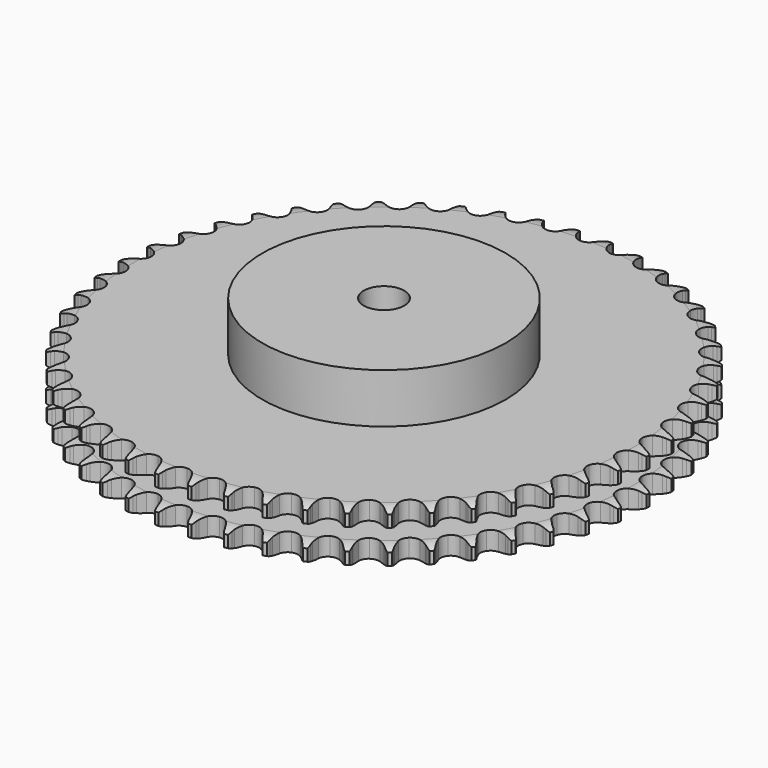
from build123d import *

# Parameters (mm, degrees)
PAD_DEPTH         = 25.5
SKETCH001_R       = 60
PAD001_DEPTH      = 50
SKETCH002_R       = 10
POCKET_DEPTH      = 0.001
POCKET_DEPTH_BACK = 50.001


with BuildPart() as part:
    # Sprocket → Pad (new body)
    with BuildSketch(Plane.XY):
        with BuildLine():
            ThreePointArc((-8.25226, 131.165916), (-7.200217, 129.793827), (-6.459326, 128.231616))
            Line((-6.459326, 128.231616), (-5.965149, 126.822045))
            ThreePointArc((-5.965149, 126.822045), (-5.185061, 125.031386), (-4.1506, 123.374615))
            ThreePointArc((-4.1506, 123.374615), (-2.327098, 121.825435), (0, 121.268896))
            ThreePointArc((0, 121.268896), (2.327098, 121.825435), (4.1506, 123.374615))
            ThreePointArc((4.1506, 123.374615), (5.185061, 125.031386), (5.965149, 126.822045))
            Line((5.965149, 126.822045), (6.459326, 128.231616))
            ThreePointArc((6.459326, 128.231616), (7.200217, 129.793827), (8.25226, 131.165916))
            ThreePointArc((8.25226, 131.165916), (9.124039, 129.672791), (9.66329, 128.03004))
            Line((9.66329, 128.03004), (9.976905, 126.569646))
            ThreePointArc((9.976905, 126.569646), (10.526412, 124.695336), (11.345068, 122.921978))
            ThreePointArc((11.345068, 122.921978), (12.960028, 121.156468), (15.199023, 120.312654))
            ThreePointArc((15.199023, 120.312654), (17.577524, 120.573142), (19.580811, 121.881562))
            Line((19.580811, 121.881562), (21.813129, 125.074384))
            ThreePointArc((21.813129, 125.074384), (22.127785, 125.752034), (22.480076, 126.410903))
            ThreePointArc((22.480076, 126.410903), (23.410921, 127.867938), (24.626637, 129.097351))
            ThreePointArc((24.626637, 129.097351), (25.304403, 127.506737), (25.633511, 125.809353))
            Line((25.633511, 125.809353), (25.761617, 124.321169))
            ThreePointArc((25.761617, 124.321169), (26.071878, 122.392767), (26.661818, 120.530787))
            ThreePointArc((26.661818, 120.530787), (28.042766, 118.576791), (30.158348, 117.45901))
            ThreePointArc((30.158348, 117.45901), (32.550742, 117.419339), (34.702221, 118.466363))
            Line((34.702221, 118.466363), (37.317103, 121.354225))
            ThreePointArc((37.317103, 121.354225), (37.714209, 121.987095), (38.146301, 122.596615))
            ThreePointArc((38.146301, 122.596615), (39.252421, 123.925494), (40.612637, 124.992844))
            ThreePointArc((40.612637, 124.992844), (41.085702, 123.329825), (41.199477, 121.604578))
            Line((41.199477, 121.604578), (41.140053, 120.112073))
            ThreePointArc((41.140053, 120.112073), (41.206175, 118.159991), (41.558094, 116.238754))
            ThreePointArc((41.558094, 116.238754), (42.683253, 114.127087), (44.642058, 112.752968))
            ThreePointArc((44.642058, 112.752968), (47.010615, 112.413763), (49.276356, 113.182878))
            Line((49.276356, 113.182878), (52.232564, 115.720237))
            ThreePointArc((52.232564, 115.720237), (52.705859, 116.298346), (53.210936, 116.848905))
            ThreePointArc((53.210936, 116.848905), (54.474887, 118.028672), (55.958152, 118.917125))
            ThreePointArc((55.958152, 118.917125), (56.219055, 117.207929), (56.115701, 115.482026))
            Line((56.115701, 115.482026), (55.869686, 114.008737))
            ThreePointArc((55.869686, 114.008737), (55.690626, 112.063761), (55.798975, 110.113567))
            ThreePointArc((55.798975, 110.113567), (56.650599, 107.877531), (58.421736, 106.268743))
            ThreePointArc((58.421736, 106.268743), (60.729102, 105.635355), (63.073373, 106.114433))
            Line((63.073373, 106.114433), (66.324286, 108.261273))
            ThreePointArc((66.324286, 108.261273), (66.866305, 108.775503), (67.436403, 109.258418))
            ThreePointArc((67.436403, 109.258418), (68.838251, 110.270467), (70.421173, 110.966012))
            ThreePointArc((70.421173, 110.966012), (70.4658, 109.237593), (70.146948, 107.538254))
            Line((70.146948, 107.538254), (69.718221, 106.107416))
            ThreePointArc((69.718221, 106.107416), (69.296802, 104.200218), (69.159873, 102.251822))
            ThreePointArc((69.159873, 102.251822), (69.724532, 99.926681), (71.280068, 98.108597))
            ThreePointArc((71.280068, 98.108597), (73.489856, 97.191013), (75.875686, 97.372499))
            Line((75.875686, 97.372499), (79.370034, 99.094963))
            ThreePointArc((79.370034, 99.094963), (79.97223, 99.537206), (80.598358, 99.94486))
            ThreePointArc((80.598358, 99.94486), (82.115995, 100.773231), (83.77361, 101.264899))
            ThreePointArc((83.77361, 101.264899), (83.601257, 99.544516), (83.071936, 97.898539))
            Line((83.071936, 97.898539), (82.467257, 96.532717))
            ThreePointArc((82.467257, 96.532717), (81.810126, 94.693376), (81.430078, 92.777506))
            ThreePointArc((81.430078, 92.777506), (81.698868, 90.399928), (83.014272, 88.40122))
            ThreePointArc((83.014272, 88.40122), (85.09163, 87.213912), (87.481393, 87.094943))
            Line((87.481393, 87.094943), (91.16407, 88.365866))
            ThreePointArc((91.16407, 88.365866), (91.816945, 88.729147), (92.489228, 89.055112))
            ThreePointArc((92.489228, 89.055112), (94.098721, 89.68674), (95.804887, 89.966777))
            ThreePointArc((95.804887, 89.966777), (95.418272, 88.281562), (94.686829, 86.714905))
            Line((94.686829, 86.714905), (93.915736, 85.43564))
            ThreePointArc((93.915736, 85.43564), (93.033256, 83.693163), (92.416083, 81.840032))
            ThreePointArc((92.416083, 81.840032), (92.384763, 79.447515), (93.43929, 77.299703))
            ThreePointArc((93.43929, 77.299703), (95.351459, 75.861395), (97.707467, 75.443847))
            Line((97.707467, 75.443847), (101.520394, 76.243187))
            ThreePointArc((101.520394, 76.243187), (102.213652, 76.521777), (102.921488, 76.760912))
            ThreePointArc((102.921488, 76.760912), (104.597454, 77.185837), (106.325264, 77.249826))
            ThreePointArc((106.325264, 77.249826), (105.730484, 75.626355), (104.808454, 74.163726))
            Line((104.808454, 74.163726), (103.883107, 72.991192))
            ThreePointArc((103.883107, 72.991192), (102.789196, 71.373059), (101.94463, 69.611893))
            ThreePointArc((101.94463, 69.611893), (101.613695, 67.242166), (102.390715, 64.979124))
            ThreePointArc((102.390715, 64.979124), (104.107538, 63.312499), (106.392636, 62.602957))
            Line((106.392636, 62.602957), (110.275681, 62.918108))
            ThreePointArc((110.275681, 62.918108), (110.998388, 63.107612), (111.730615, 63.256146))
            ThreePointArc((111.730615, 63.256146), (113.446622, 63.467666), (115.168828, 63.314599))
            ThreePointArc((115.168828, 63.314599), (114.375263, 61.778475), (113.277188, 60.44294))
            Line((113.277188, 60.44294), (112.21218, 59.395629))
            ThreePointArc((112.21218, 59.395629), (110.924088, 57.927359), (109.86545, 56.285932))
            ThreePointArc((109.86545, 56.285932), (109.240119, 53.976369), (109.727377, 51.633784))
            ThreePointArc((109.727377, 51.633784), (111.221779, 49.765126), (113.399929, 48.774781))
            Line((113.399929, 48.774781), (117.291854, 48.600772))
            ThreePointArc((117.291854, 48.600772), (118.032614, 48.698203), (118.777683, 48.753794))
            ThreePointArc((118.777683, 48.753794), (120.50667, 48.748573), (122.196111, 48.380863))
            ThreePointArc((122.196111, 48.380863), (121.216276, 46.956312), (119.959473, 45.768933))
            Line((119.959473, 45.768933), (118.7716, 44.863361))
            ThreePointArc((118.7716, 44.863361), (117.309642, 43.568109), (116.053626, 42.072308))
            ThreePointArc((116.053626, 42.072308), (115.143761, 39.859331), (115.333573, 37.47415))
            ThreePointArc((115.333573, 37.47415), (116.581987, 35.432928), (118.618838, 34.177397))
            Line((118.618838, 34.177397), (122.458265, 33.516973))
            ThreePointArc((122.458265, 33.516973), (123.205395, 33.520794), (123.951556, 33.482564))
            ThreePointArc((123.951556, 33.482564), (125.666255, 33.260685), (127.296288, 32.684132))
            ThreePointArc((127.296288, 32.684132), (126.145636, 31.393619), (124.749925, 30.373123))
            Line((124.749925, 30.373123), (123.45792, 29.623571))
            ThreePointArc((123.45792, 29.623571), (121.845152, 28.521765), (120.411567, 27.195179))
            ThreePointArc((120.411567, 27.195179), (119.231517, 25.113689), (119.12089, 22.723525))
            ThreePointArc((119.12089, 22.723525), (120.103626, 20.541932), (121.967057, 19.041016))
            Line((121.967057, 19.041016), (125.693435, 17.904592))
            ThreePointArc((125.693435, 17.904592), (126.435153, 17.814742), (127.170639, 17.683295))
            ThreePointArc((127.170639, 17.683295), (128.844008, 17.248257), (130.388927, 16.471952))
            ThreePointArc((130.388927, 16.471952), (129.085604, 15.335831), (127.572996, 14.49831))
            Line((127.572996, 14.49831), (126.197236, 13.9166))
            ThreePointArc((126.197236, 13.9166), (124.459092, 13.025615), (122.870545, 11.889166))
            ThreePointArc((122.870545, 11.889166), (121.438921, 9.971988), (121.029599, 7.614537))
            ThreePointArc((121.029599, 7.614537), (121.73116, 5.326976), (123.391782, 3.604346))
            Line((123.391782, 3.604346), (126.946345, 2.009844))
            ThreePointArc((126.946345, 2.009844), (127.670953, 1.827741), (128.384165, 1.605149))
            ThreePointArc((128.384165, 1.605149), (129.989814, 0.963813), (131.425254, 0))
            ThreePointArc((131.425254, 0), (129.989814, -0.963813), (128.384165, -1.605149))
            Line((128.384165, -1.605149), (126.946345, -2.009844))
            ThreePointArc((126.946345, -2.009844), (125.110237, -2.675956), (123.391782, -3.604346))
            ThreePointArc((123.391782, -3.604346), (121.73116, -5.326976), (121.029599, -7.614537))
            ThreePointArc((121.029599, -7.614537), (121.438921, -9.971988), (122.870545, -11.889166))
            Line((122.870545, -11.889166), (126.197236, -13.9166))
            ThreePointArc((126.197236, -13.9166), (126.893306, -14.188085), (127.572996, -14.49831))
            ThreePointArc((127.572996, -14.49831), (129.085604, -15.335831), (130.388927, -16.471952))
            ThreePointArc((130.388927, -16.471952), (128.844008, -17.248257), (127.170639, -17.683295))
            Line((127.170639, -17.683295), (125.693435, -17.904592))
            ThreePointArc((125.693435, -17.904592), (123.78832, -18.335326), (121.967057, -19.041016))
            ThreePointArc((121.967057, -19.041016), (120.103626, -20.541932), (119.12089, -22.723525))
            ThreePointArc((119.12089, -22.723525), (119.231517, -25.113689), (120.411567, -27.195179))
            Line((120.411567, -27.195179), (123.45792, -29.623571))
            ThreePointArc((123.45792, -29.623571), (124.114476, -29.980156), (124.749925, -30.373123))
            ThreePointArc((124.749925, -30.373123), (126.145636, -31.393619), (127.296288, -32.684132))
            ThreePointArc((127.296288, -32.684132), (125.666255, -33.260685), (123.951556, -33.482564))
            Line((123.951556, -33.482564), (122.458265, -33.516973))
            ThreePointArc((122.458265, -33.516973), (120.514186, -33.705537), (118.618838, -34.177397))
            ThreePointArc((118.618838, -34.177397), (116.581987, -35.432928), (115.333573, -37.47415))
            ThreePointArc((115.333573, -37.47415), (115.143761, -39.859331), (116.053626, -42.072308))
            Line((116.053626, -42.072308), (118.7716, -44.863361))
            ThreePointArc((118.7716, -44.863361), (119.378286, -45.299422), (119.959473, -45.768933))
            ThreePointArc((119.959473, -45.768933), (121.216276, -46.956312), (122.196111, -48.380863))
            ThreePointArc((122.196111, -48.380863), (120.50667, -48.748573), (118.777683, -48.753794))
            Line((118.777683, -48.753794), (117.291854, -48.600772))
            ThreePointArc((117.291854, -48.600772), (115.339472, -48.544191), (113.399929, -48.774781))
            ThreePointArc((113.399929, -48.774781), (111.221779, -49.765126), (109.727377, -51.633784))
            ThreePointArc((109.727377, -51.633784), (109.240119, -53.976369), (109.86545, -56.285932))
            Line((109.86545, -56.285932), (112.21218, -59.395629))
            ThreePointArc((112.21218, -59.395629), (112.75943, -59.904289), (113.277188, -60.44294))
            ThreePointArc((113.277188, -60.44294), (114.375263, -61.778475), (115.168828, -63.314599))
            ThreePointArc((115.168828, -63.314599), (113.446622, -63.467666), (111.730615, -63.256146))
            Line((111.730615, -63.256146), (110.275681, -62.918108))
            ThreePointArc((110.275681, -62.918108), (108.345785, -62.617275), (106.392636, -62.602957))
            ThreePointArc((106.392636, -62.602957), (104.107538, -63.312499), (102.390715, -64.979124))
            ThreePointArc((102.390715, -64.979124), (101.613695, -67.242166), (101.94463, -69.611893))
            Line((101.94463, -69.611893), (103.883107, -72.991192))
            ThreePointArc((103.883107, -72.991192), (104.36229, -73.56443), (104.808454, -74.163726))
            ThreePointArc((104.808454, -74.163726), (105.730484, -75.626355), (106.325264, -77.249826))
            ThreePointArc((106.325264, -77.249826), (104.597454, -77.185837), (102.921488, -76.760912))
            Line((102.921488, -76.760912), (101.520394, -76.243187))
            ThreePointArc((101.520394, -76.243187), (99.643421, -75.702846), (97.707467, -75.443847))
            ThreePointArc((97.707467, -75.443847), (95.351459, -75.861395), (93.43929, -77.299703))
            ThreePointArc((93.43929, -77.299703), (92.384763, -79.447515), (92.416083, -81.840032))
            Line((92.416083, -81.840032), (93.915736, -85.43564))
            ThreePointArc((93.915736, -85.43564), (94.319294, -86.064416), (94.686829, -86.714905))
            ThreePointArc((94.686829, -86.714905), (95.418272, -88.281562), (95.804887, -89.966777))
            ThreePointArc((95.804887, -89.966777), (94.098721, -89.68674), (92.489228, -89.055112))
            Line((92.489228, -89.055112), (91.16407, -88.365866))
            ThreePointArc((91.16407, -88.365866), (89.36962, -87.594539), (87.481393, -87.094943))
            ThreePointArc((87.481393, -87.094943), (85.09163, -87.213912), (83.014272, -88.40122))
            ThreePointArc((83.014272, -88.40122), (81.698868, -90.399928), (81.430078, -92.777506))
            Line((81.430078, -92.777506), (82.467257, -96.532717))
            ThreePointArc((82.467257, -96.532717), (82.788827, -97.207114), (83.071936, -97.898539))
            ThreePointArc((83.071936, -97.898539), (83.601257, -99.544516), (83.77361, -101.264899))
            ThreePointArc((83.77361, -101.264899), (82.115995, -100.773231), (80.598358, -99.94486))
            Line((80.598358, -99.94486), (79.370034, -99.094963))
            ThreePointArc((79.370034, -99.094963), (77.686407, -98.104813), (75.875686, -97.372499))
            ThreePointArc((75.875686, -97.372499), (73.489856, -97.191013), (71.280068, -98.108597))
            ThreePointArc((71.280068, -98.108597), (69.724532, -99.926681), (69.159873, -102.251822))
            Line((69.159873, -102.251822), (69.718221, -106.107416))
            ThreePointArc((69.718221, -106.107416), (69.95273, -106.816798), (70.146948, -107.538254))
            ThreePointArc((70.146948, -107.538254), (70.4658, -109.237593), (70.421173, -110.966012))
            ThreePointArc((70.421173, -110.966012), (68.838251, -110.270467), (67.436403, -109.258418))
            Line((67.436403, -109.258418), (66.324286, -108.261273))
            ThreePointArc((66.324286, -108.261273), (64.778033, -107.067916), (63.073373, -106.114433))
            ThreePointArc((63.073373, -106.114433), (60.729102, -105.635355), (58.421736, -106.268743))
            ThreePointArc((58.421736, -106.268743), (56.650599, -107.877531), (55.798975, -110.113567))
            Line((55.798975, -110.113567), (55.869686, -114.008737))
            ThreePointArc((55.869686, -114.008737), (56.013437, -114.741918), (56.115701, -115.482026))
            ThreePointArc((56.115701, -115.482026), (56.219055, -117.207929), (55.958152, -118.917125))
            ThreePointArc((55.958152, -118.917125), (54.474887, -118.028672), (53.210936, -116.848905))
            Line((53.210936, -116.848905), (52.232564, -115.720237))
            ThreePointArc((52.232564, -115.720237), (50.848071, -114.342494), (49.276356, -113.182878))
            ThreePointArc((49.276356, -113.182878), (47.010615, -112.413763), (44.642058, -112.752968))
            ThreePointArc((44.642058, -112.752968), (42.683253, -114.127087), (41.558094, -116.238754))
            Line((41.558094, -116.238754), (41.140053, -120.112073))
            ThreePointArc((41.140053, -120.112073), (41.190779, -120.857489), (41.199477, -121.604578))
            ThreePointArc((41.199477, -121.604578), (41.085702, -123.329825), (40.612637, -124.992844))
            ThreePointArc((40.612637, -124.992844), (39.252421, -123.925494), (38.146301, -122.596615))
            Line((38.146301, -122.596615), (37.317103, -121.354225))
            ThreePointArc((37.317103, -121.354225), (36.116204, -119.813822), (34.702221, -118.466363))
            ThreePointArc((34.702221, -118.466363), (32.550742, -117.419339), (30.158348, -117.45901))
            ThreePointArc((30.158348, -117.45901), (28.042766, -118.576791), (26.661818, -120.530787))
            Line((26.661818, -120.530787), (25.761617, -124.321169))
            ThreePointArc((25.761617, -124.321169), (25.718518, -125.067065), (25.633511, -125.809353))
            ThreePointArc((25.633511, -125.809353), (25.304403, -127.506737), (24.626637, -129.097351))
            ThreePointArc((24.626637, -129.097351), (23.410921, -127.867938), (22.480076, -126.410903))
            Line((22.480076, -126.410903), (21.813129, -125.074384))
            ThreePointArc((21.813129, -125.074384), (20.814763, -123.395615), (19.580811, -121.881562))
            ThreePointArc((19.580811, -121.881562), (17.577524, -120.573142), (15.199023, -120.312654))
            ThreePointArc((15.199023, -120.312654), (12.960028, -121.156468), (11.345068, -122.921978))
            Line((11.345068, -122.921978), (9.976905, -126.569646))
            ThreePointArc((9.976905, -126.569646), (9.84066, -127.304259), (9.66329, -128.03004))
            ThreePointArc((9.66329, -128.03004), (9.124039, -129.672791), (8.25226, -131.165916))
            ThreePointArc((8.25226, -131.165916), (7.200217, -129.793827), (6.459326, -128.231616))
            Line((6.459326, -128.231616), (5.965149, -126.822045))
            ThreePointArc((5.965149, -126.822045), (5.185061, -125.031386), (4.1506, -123.374615))
            ThreePointArc((4.1506, -123.374615), (2.327098, -121.825435), (0, -121.268896))
            ThreePointArc((0, -121.268896), (-2.327098, -121.825435), (-4.1506, -123.374615))
            Line((-4.1506, -123.374615), (-5.965149, -126.822045))
            ThreePointArc((-5.965149, -126.822045), (-6.192391, -127.533788), (-6.459326, -128.231616))
            ThreePointArc((-6.459326, -128.231616), (-7.200217, -129.793827), (-8.25226, -131.165916))
            ThreePointArc((-8.25226, -131.165916), (-9.124039, -129.672791), (-9.66329, -128.03004))
            Line((-9.66329, -128.03004), (-9.976905, -126.569646))
            ThreePointArc((-9.976905, -126.569646), (-10.526412, -124.695336), (-11.345068, -122.921978))
            ThreePointArc((-11.345068, -122.921978), (-12.960028, -121.156468), (-15.199023, -120.312654))
            ThreePointArc((-15.199023, -120.312654), (-17.577524, -120.573142), (-19.580811, -121.881562))
            Line((-19.580811, -121.881562), (-21.813129, -125.074384))
            ThreePointArc((-21.813129, -125.074384), (-22.127785, -125.752034), (-22.480076, -126.410903))
            ThreePointArc((-22.480076, -126.410903), (-23.410921, -127.867938), (-24.626637, -129.097351))
            ThreePointArc((-24.626637, -129.097351), (-25.304403, -127.506737), (-25.633511, -125.809353))
            Line((-25.633511, -125.809353), (-25.761617, -124.321169))
            ThreePointArc((-25.761617, -124.321169), (-26.071878, -122.392767), (-26.661818, -120.530787))
            ThreePointArc((-26.661818, -120.530787), (-28.042766, -118.576791), (-30.158348, -117.45901))
            ThreePointArc((-30.158348, -117.45901), (-32.550742, -117.419339), (-34.702221, -118.466363))
            Line((-34.702221, -118.466363), (-37.317103, -121.354225))
            ThreePointArc((-37.317103, -121.354225), (-37.714209, -121.987095), (-38.146301, -122.596615))
            ThreePointArc((-38.146301, -122.596615), (-39.252421, -123.925494), (-40.612637, -124.992844))
            ThreePointArc((-40.612637, -124.992844), (-41.085702, -123.329825), (-41.199477, -121.604578))
            Line((-41.199477, -121.604578), (-41.140053, -120.112073))
            ThreePointArc((-41.140053, -120.112073), (-41.206175, -118.159991), (-41.558094, -116.238754))
            ThreePointArc((-41.558094, -116.238754), (-42.683253, -114.127087), (-44.642058, -112.752968))
            ThreePointArc((-44.642058, -112.752968), (-47.010615, -112.413763), (-49.276356, -113.182878))
            Line((-49.276356, -113.182878), (-52.232564, -115.720237))
            ThreePointArc((-52.232564, -115.720237), (-52.705859, -116.298346), (-53.210936, -116.848905))
            ThreePointArc((-53.210936, -116.848905), (-54.474887, -118.028672), (-55.958152, -118.917125))
            ThreePointArc((-55.958152, -118.917125), (-56.219055, -117.207929), (-56.115701, -115.482026))
            Line((-56.115701, -115.482026), (-55.869686, -114.008737))
            ThreePointArc((-55.869686, -114.008737), (-55.690626, -112.063761), (-55.798975, -110.113567))
            ThreePointArc((-55.798975, -110.113567), (-56.650599, -107.877531), (-58.421736, -106.268743))
            ThreePointArc((-58.421736, -106.268743), (-60.729102, -105.635355), (-63.073373, -106.114433))
            Line((-63.073373, -106.114433), (-66.324286, -108.261273))
            ThreePointArc((-66.324286, -108.261273), (-66.866305, -108.775503), (-67.436403, -109.258418))
            ThreePointArc((-67.436403, -109.258418), (-68.838251, -110.270467), (-70.421173, -110.966012))
            ThreePointArc((-70.421173, -110.966012), (-70.4658, -109.237593), (-70.146948, -107.538254))
            Line((-70.146948, -107.538254), (-69.718221, -106.107416))
            ThreePointArc((-69.718221, -106.107416), (-69.296802, -104.200218), (-69.159873, -102.251822))
            ThreePointArc((-69.159873, -102.251822), (-69.724532, -99.926681), (-71.280068, -98.108597))
            ThreePointArc((-71.280068, -98.108597), (-73.489856, -97.191013), (-75.875686, -97.372499))
            Line((-75.875686, -97.372499), (-79.370034, -99.094963))
            ThreePointArc((-79.370034, -99.094963), (-79.97223, -99.537206), (-80.598358, -99.94486))
            ThreePointArc((-80.598358, -99.94486), (-82.115995, -100.773231), (-83.77361, -101.264899))
            ThreePointArc((-83.77361, -101.264899), (-83.601257, -99.544516), (-83.071936, -97.898539))
            Line((-83.071936, -97.898539), (-82.467257, -96.532717))
            ThreePointArc((-82.467257, -96.532717), (-81.810126, -94.693376), (-81.430078, -92.777506))
            ThreePointArc((-81.430078, -92.777506), (-81.698868, -90.399928), (-83.014272, -88.40122))
            ThreePointArc((-83.014272, -88.40122), (-85.09163, -87.213912), (-87.481393, -87.094943))
            Line((-87.481393, -87.094943), (-91.16407, -88.365866))
            ThreePointArc((-91.16407, -88.365866), (-91.816945, -88.729147), (-92.489228, -89.055112))
            ThreePointArc((-92.489228, -89.055112), (-94.098721, -89.68674), (-95.804887, -89.966777))
            ThreePointArc((-95.804887, -89.966777), (-95.418272, -88.281562), (-94.686829, -86.714905))
            Line((-94.686829, -86.714905), (-93.915736, -85.43564))
            ThreePointArc((-93.915736, -85.43564), (-93.033256, -83.693163), (-92.416083, -81.840032))
            ThreePointArc((-92.416083, -81.840032), (-92.384763, -79.447515), (-93.43929, -77.299703))
            ThreePointArc((-93.43929, -77.299703), (-95.351459, -75.861395), (-97.707467, -75.443847))
            Line((-97.707467, -75.443847), (-101.520394, -76.243187))
            ThreePointArc((-101.520394, -76.243187), (-102.213652, -76.521777), (-102.921488, -76.760912))
            ThreePointArc((-102.921488, -76.760912), (-104.597454, -77.185837), (-106.325264, -77.249826))
            ThreePointArc((-106.325264, -77.249826), (-105.730484, -75.626355), (-104.808454, -74.163726))
            Line((-104.808454, -74.163726), (-103.883107, -72.991192))
            ThreePointArc((-103.883107, -72.991192), (-102.789196, -71.373059), (-101.94463, -69.611893))
            ThreePointArc((-101.94463, -69.611893), (-101.613695, -67.242166), (-102.390715, -64.979124))
            ThreePointArc((-102.390715, -64.979124), (-104.107538, -63.312499), (-106.392636, -62.602957))
            Line((-106.392636, -62.602957), (-110.275681, -62.918108))
            ThreePointArc((-110.275681, -62.918108), (-110.998388, -63.107612), (-111.730615, -63.256146))
            ThreePointArc((-111.730615, -63.256146), (-113.446622, -63.467666), (-115.168828, -63.314599))
            ThreePointArc((-115.168828, -63.314599), (-114.375263, -61.778475), (-113.277188, -60.44294))
            Line((-113.277188, -60.44294), (-112.21218, -59.395629))
            ThreePointArc((-112.21218, -59.395629), (-110.924088, -57.927359), (-109.86545, -56.285932))
            ThreePointArc((-109.86545, -56.285932), (-109.240119, -53.976369), (-109.727377, -51.633784))
            ThreePointArc((-109.727377, -51.633784), (-111.221779, -49.765126), (-113.399929, -48.774781))
            Line((-113.399929, -48.774781), (-117.291854, -48.600772))
            ThreePointArc((-117.291854, -48.600772), (-118.032614, -48.698203), (-118.777683, -48.753794))
            ThreePointArc((-118.777683, -48.753794), (-120.50667, -48.748573), (-122.196111, -48.380863))
            ThreePointArc((-122.196111, -48.380863), (-121.216276, -46.956312), (-119.959473, -45.768933))
            Line((-119.959473, -45.768933), (-118.7716, -44.863361))
            ThreePointArc((-118.7716, -44.863361), (-117.309642, -43.568109), (-116.053626, -42.072308))
            ThreePointArc((-116.053626, -42.072308), (-115.143761, -39.859331), (-115.333573, -37.47415))
            ThreePointArc((-115.333573, -37.47415), (-116.581987, -35.432928), (-118.618838, -34.177397))
            Line((-118.618838, -34.177397), (-122.458265, -33.516973))
            ThreePointArc((-122.458265, -33.516973), (-123.205395, -33.520794), (-123.951556, -33.482564))
            ThreePointArc((-123.951556, -33.482564), (-125.666255, -33.260685), (-127.296288, -32.684132))
            ThreePointArc((-127.296288, -32.684132), (-126.145636, -31.393619), (-124.749925, -30.373123))
            Line((-124.749925, -30.373123), (-123.45792, -29.623571))
            ThreePointArc((-123.45792, -29.623571), (-121.845152, -28.521765), (-120.411567, -27.195179))
            ThreePointArc((-120.411567, -27.195179), (-119.231517, -25.113689), (-119.12089, -22.723525))
            ThreePointArc((-119.12089, -22.723525), (-120.103626, -20.541932), (-121.967057, -19.041016))
            Line((-121.967057, -19.041016), (-125.693435, -17.904592))
            ThreePointArc((-125.693435, -17.904592), (-126.435153, -17.814742), (-127.170639, -17.683295))
            ThreePointArc((-127.170639, -17.683295), (-128.844008, -17.248257), (-130.388927, -16.471952))
            ThreePointArc((-130.388927, -16.471952), (-129.085604, -15.335831), (-127.572996, -14.49831))
            Line((-127.572996, -14.49831), (-126.197236, -13.9166))
            ThreePointArc((-126.197236, -13.9166), (-124.459092, -13.025615), (-122.870545, -11.889166))
            ThreePointArc((-122.870545, -11.889166), (-121.438921, -9.971988), (-121.029599, -7.614537))
            ThreePointArc((-121.029599, -7.614537), (-121.73116, -5.326976), (-123.391782, -3.604346))
            Line((-123.391782, -3.604346), (-126.946345, -2.009844))
            ThreePointArc((-126.946345, -2.009844), (-127.670953, -1.827741), (-128.384165, -1.605149))
            ThreePointArc((-128.384165, -1.605149), (-129.989814, -0.963813), (-131.425254, 0))
            ThreePointArc((-131.425254, 0), (-129.989814, 0.963813), (-128.384165, 1.605149))
            Line((-128.384165, 1.605149), (-126.946345, 2.009844))
            ThreePointArc((-126.946345, 2.009844), (-125.110237, 2.675956), (-123.391782, 3.604346))
            ThreePointArc((-123.391782, 3.604346), (-121.73116, 5.326976), (-121.029599, 7.614537))
            ThreePointArc((-121.029599, 7.614537), (-121.438921, 9.971988), (-122.870545, 11.889166))
            Line((-122.870545, 11.889166), (-126.197236, 13.9166))
            ThreePointArc((-126.197236, 13.9166), (-126.893306, 14.188085), (-127.572996, 14.49831))
            ThreePointArc((-127.572996, 14.49831), (-129.085604, 15.335831), (-130.388927, 16.471952))
            ThreePointArc((-130.388927, 16.471952), (-128.844008, 17.248257), (-127.170639, 17.683295))
            Line((-127.170639, 17.683295), (-125.693435, 17.904592))
            ThreePointArc((-125.693435, 17.904592), (-123.78832, 18.335326), (-121.967057, 19.041016))
            ThreePointArc((-121.967057, 19.041016), (-120.103626, 20.541932), (-119.12089, 22.723525))
            ThreePointArc((-119.12089, 22.723525), (-119.231517, 25.113689), (-120.411567, 27.195179))
            Line((-120.411567, 27.195179), (-123.45792, 29.623571))
            ThreePointArc((-123.45792, 29.623571), (-124.114476, 29.980156), (-124.749925, 30.373123))
            ThreePointArc((-124.749925, 30.373123), (-126.145636, 31.393619), (-127.296288, 32.684132))
            ThreePointArc((-127.296288, 32.684132), (-125.666255, 33.260685), (-123.951556, 33.482564))
            Line((-123.951556, 33.482564), (-122.458265, 33.516973))
            ThreePointArc((-122.458265, 33.516973), (-120.514186, 33.705537), (-118.618838, 34.177397))
            ThreePointArc((-118.618838, 34.177397), (-116.581987, 35.432928), (-115.333573, 37.47415))
            ThreePointArc((-115.333573, 37.47415), (-115.143761, 39.859331), (-116.053626, 42.072308))
            Line((-116.053626, 42.072308), (-118.7716, 44.863361))
            ThreePointArc((-118.7716, 44.863361), (-119.378286, 45.299422), (-119.959473, 45.768933))
            ThreePointArc((-119.959473, 45.768933), (-121.216276, 46.956312), (-122.196111, 48.380863))
            ThreePointArc((-122.196111, 48.380863), (-120.50667, 48.748573), (-118.777683, 48.753794))
            Line((-118.777683, 48.753794), (-117.291854, 48.600772))
            ThreePointArc((-117.291854, 48.600772), (-115.339472, 48.544191), (-113.399929, 48.774781))
            ThreePointArc((-113.399929, 48.774781), (-111.221779, 49.765126), (-109.727377, 51.633784))
            ThreePointArc((-109.727377, 51.633784), (-109.240119, 53.976369), (-109.86545, 56.285932))
            Line((-109.86545, 56.285932), (-112.21218, 59.395629))
            ThreePointArc((-112.21218, 59.395629), (-112.75943, 59.904289), (-113.277188, 60.44294))
            ThreePointArc((-113.277188, 60.44294), (-114.375263, 61.778475), (-115.168828, 63.314599))
            ThreePointArc((-115.168828, 63.314599), (-113.446622, 63.467666), (-111.730615, 63.256146))
            Line((-111.730615, 63.256146), (-110.275681, 62.918108))
            ThreePointArc((-110.275681, 62.918108), (-108.345785, 62.617275), (-106.392636, 62.602957))
            ThreePointArc((-106.392636, 62.602957), (-104.107538, 63.312499), (-102.390715, 64.979124))
            ThreePointArc((-102.390715, 64.979124), (-101.613695, 67.242166), (-101.94463, 69.611893))
            Line((-101.94463, 69.611893), (-103.883107, 72.991192))
            ThreePointArc((-103.883107, 72.991192), (-104.36229, 73.56443), (-104.808454, 74.163726))
            ThreePointArc((-104.808454, 74.163726), (-105.730484, 75.626355), (-106.325264, 77.249826))
            ThreePointArc((-106.325264, 77.249826), (-104.597454, 77.185837), (-102.921488, 76.760912))
            Line((-102.921488, 76.760912), (-101.520394, 76.243187))
            ThreePointArc((-101.520394, 76.243187), (-99.643421, 75.702846), (-97.707467, 75.443847))
            ThreePointArc((-97.707467, 75.443847), (-95.351459, 75.861395), (-93.43929, 77.299703))
            ThreePointArc((-93.43929, 77.299703), (-92.384763, 79.447515), (-92.416083, 81.840032))
            Line((-92.416083, 81.840032), (-93.915736, 85.43564))
            ThreePointArc((-93.915736, 85.43564), (-94.319294, 86.064416), (-94.686829, 86.714905))
            ThreePointArc((-94.686829, 86.714905), (-95.418272, 88.281562), (-95.804887, 89.966777))
            ThreePointArc((-95.804887, 89.966777), (-94.098721, 89.68674), (-92.489228, 89.055112))
            Line((-92.489228, 89.055112), (-91.16407, 88.365866))
            ThreePointArc((-91.16407, 88.365866), (-89.36962, 87.594539), (-87.481393, 87.094943))
            ThreePointArc((-87.481393, 87.094943), (-85.09163, 87.213912), (-83.014272, 88.40122))
            ThreePointArc((-83.014272, 88.40122), (-81.698868, 90.399928), (-81.430078, 92.777506))
            Line((-81.430078, 92.777506), (-82.467257, 96.532717))
            ThreePointArc((-82.467257, 96.532717), (-82.788827, 97.207114), (-83.071936, 97.898539))
            ThreePointArc((-83.071936, 97.898539), (-83.601257, 99.544516), (-83.77361, 101.264899))
            ThreePointArc((-83.77361, 101.264899), (-82.115995, 100.773231), (-80.598358, 99.94486))
            Line((-80.598358, 99.94486), (-79.370034, 99.094963))
            ThreePointArc((-79.370034, 99.094963), (-77.686407, 98.104813), (-75.875686, 97.372499))
            ThreePointArc((-75.875686, 97.372499), (-73.489856, 97.191013), (-71.280068, 98.108597))
            ThreePointArc((-71.280068, 98.108597), (-69.724532, 99.926681), (-69.159873, 102.251822))
            Line((-69.159873, 102.251822), (-69.718221, 106.107416))
            ThreePointArc((-69.718221, 106.107416), (-69.95273, 106.816798), (-70.146948, 107.538254))
            ThreePointArc((-70.146948, 107.538254), (-70.4658, 109.237593), (-70.421173, 110.966012))
            ThreePointArc((-70.421173, 110.966012), (-68.838251, 110.270467), (-67.436403, 109.258418))
            Line((-67.436403, 109.258418), (-66.324286, 108.261273))
            ThreePointArc((-66.324286, 108.261273), (-64.778033, 107.067916), (-63.073373, 106.114433))
            ThreePointArc((-63.073373, 106.114433), (-60.729102, 105.635355), (-58.421736, 106.268743))
            ThreePointArc((-58.421736, 106.268743), (-56.650599, 107.877531), (-55.798975, 110.113567))
            Line((-55.798975, 110.113567), (-55.869686, 114.008737))
            ThreePointArc((-55.869686, 114.008737), (-56.013437, 114.741918), (-56.115701, 115.482026))
            ThreePointArc((-56.115701, 115.482026), (-56.219055, 117.207929), (-55.958152, 118.917125))
            ThreePointArc((-55.958152, 118.917125), (-54.474887, 118.028672), (-53.210936, 116.848905))
            Line((-53.210936, 116.848905), (-52.232564, 115.720237))
            ThreePointArc((-52.232564, 115.720237), (-50.848071, 114.342494), (-49.276356, 113.182878))
            ThreePointArc((-49.276356, 113.182878), (-47.010615, 112.413763), (-44.642058, 112.752968))
            ThreePointArc((-44.642058, 112.752968), (-42.683253, 114.127087), (-41.558094, 116.238754))
            Line((-41.558094, 116.238754), (-41.140053, 120.112073))
            ThreePointArc((-41.140053, 120.112073), (-41.190779, 120.857489), (-41.199477, 121.604578))
            ThreePointArc((-41.199477, 121.604578), (-41.085702, 123.329825), (-40.612637, 124.992844))
            ThreePointArc((-40.612637, 124.992844), (-39.252421, 123.925494), (-38.146301, 122.596615))
            Line((-38.146301, 122.596615), (-37.317103, 121.354225))
            ThreePointArc((-37.317103, 121.354225), (-36.116204, 119.813822), (-34.702221, 118.466363))
            ThreePointArc((-34.702221, 118.466363), (-32.550742, 117.419339), (-30.158348, 117.45901))
            ThreePointArc((-30.158348, 117.45901), (-28.042766, 118.576791), (-26.661818, 120.530787))
            Line((-26.661818, 120.530787), (-25.761617, 124.321169))
            ThreePointArc((-25.761617, 124.321169), (-25.718518, 125.067065), (-25.633511, 125.809353))
            ThreePointArc((-25.633511, 125.809353), (-25.304403, 127.506737), (-24.626637, 129.097351))
            ThreePointArc((-24.626637, 129.097351), (-23.410921, 127.867938), (-22.480076, 126.410903))
            Line((-22.480076, 126.410903), (-21.813129, 125.074384))
            ThreePointArc((-21.813129, 125.074384), (-20.814763, 123.395615), (-19.580811, 121.881562))
            ThreePointArc((-19.580811, 121.881562), (-17.577524, 120.573142), (-15.199023, 120.312654))
            ThreePointArc((-15.199023, 120.312654), (-12.960028, 121.156468), (-11.345068, 122.921978))
            Line((-11.345068, 122.921978), (-9.976905, 126.569646))
            ThreePointArc((-9.976905, 126.569646), (-9.84066, 127.304259), (-9.66329, 128.03004))
            ThreePointArc((-9.66329, 128.03004), (-9.124039, 129.672791), (-8.25226, 131.165916))
        make_face()
    extrude(amount=PAD_DEPTH)

    # Sketch → Groove (revolve, cut)
    with BuildSketch(Plane.XZ):
        with BuildLine():
            ThreePointArc((123.175762, 0), (126.75347, 0.405129), (130.15, 1.6))
            Line((130.15, 1.6), (130.15, 7.4))
            ThreePointArc((130.15, 7.4), (126.75347, 8.594871), (123.175762, 9))
            Line((60, 9), (123.175762, 9))
            Line((60, 16.5), (60, 9))
            Line((123.175762, 16.5), (60, 16.5))
            ThreePointArc((123.175762, 16.5), (126.75347, 16.905129), (130.15, 18.1))
            Line((130.15, 18.1), (130.15, 23.9))
            ThreePointArc((130.15, 23.9), (126.75347, 25.094871), (123.175762, 25.5))
            Line((123.175762, 25.5), (133.175762, 25.5))
            Line((133.175762, 25.5), (133.175762, 0))
            Line((123.175762, 0), (133.175762, 0))
        make_face()
    revolve(axis=Axis((0, 0, 0), (0, 0, 1)), mode=Mode.SUBTRACT)

    # Sketch001 → Pad001 (join)
    with BuildSketch(Plane.XY):
        Circle(SKETCH001_R)
    extrude(amount=PAD001_DEPTH)

    # Sketch002 → Pocket (cut, two sides)
    with BuildSketch(Plane.XY) as pocket_sk:
        Circle(SKETCH002_R)
    extrude(amount=-POCKET_DEPTH, mode=Mode.SUBTRACT)
    extrude(pocket_sk.sketch, amount=POCKET_DEPTH_BACK, mode=Mode.SUBTRACT)


solid = part.part
